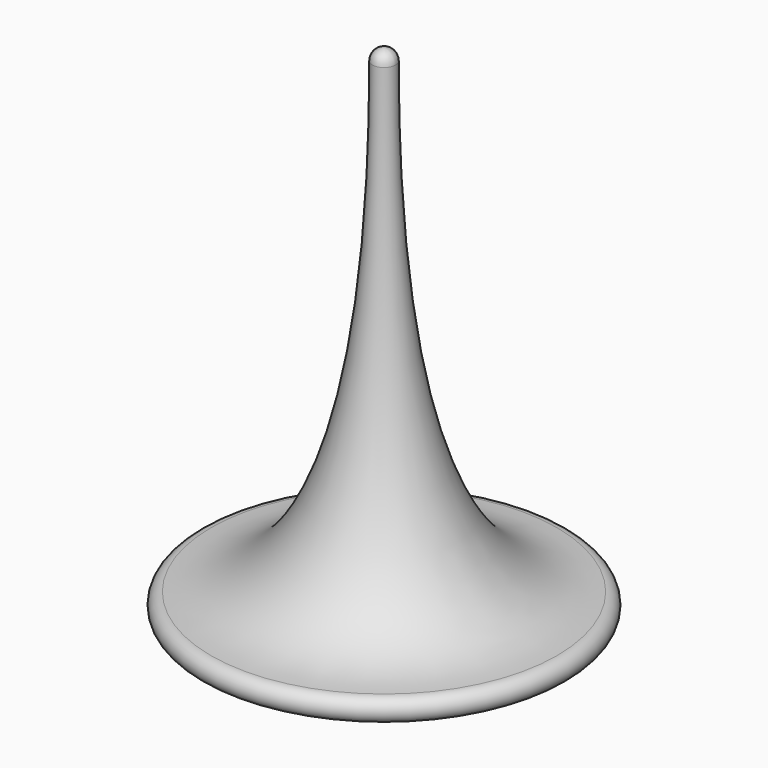
from build123d import *


with BuildPart() as part:
    # Sketch → Revolution (revolve)
    with BuildSketch(Plane.XZ):
        with BuildLine():
            ThreePointArc((0, -1), (0.707107, -0.707107), (1, 0))
            add(Edge.make_bspline(
                [(1, 0), (1, 6.5), (15, 6.5)],
                knots=[0, 0, 0, 1, 1, 1], degree=2))
            ThreePointArc((15, 6.5), (16, 7.5), (15, 8.5))
            add(Edge.make_bspline(
                [(15, 8.5), (1, 8.5), (1, 49)],
                knots=[0, 0, 0, 1, 1, 1], degree=2))
            ThreePointArc((1, 49), (0.707107, 49.707107), (0, 50))
            Line((0, 50), (0, -1))
        make_face()
    revolve(axis=Axis((0, 0, 0), (0, 0, 1)))


solid = part.part
